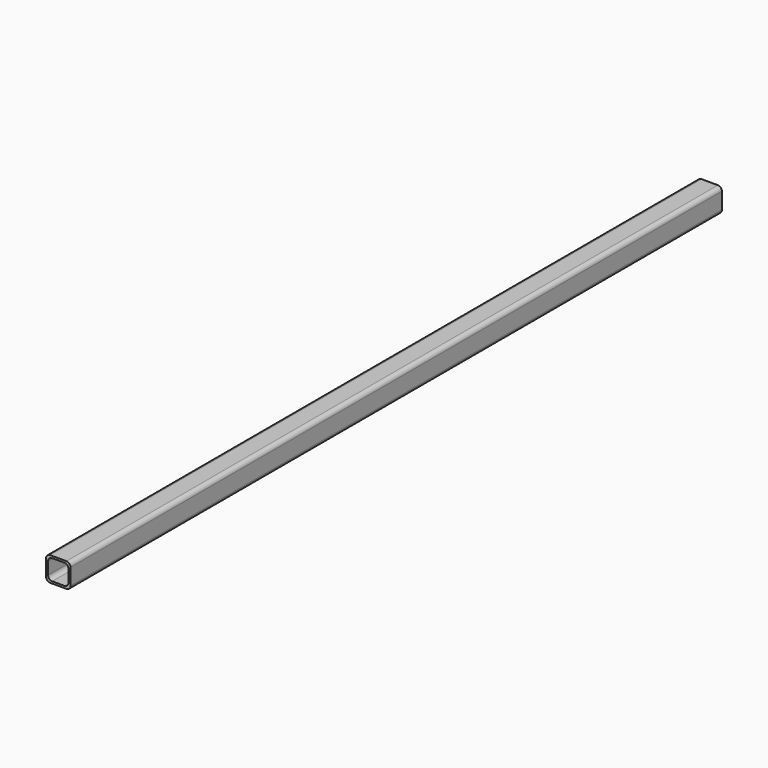
from build123d import *

# Parameters (mm, degrees)
F1_DEPTH = 1270


with BuildPart() as f1:
    # F0 (on Front) → F1 (new body)
    with BuildSketch(Plane.XZ):
        with BuildLine():
            ThreePointArc((0, 6.35), (1.859872, 1.859872), (6.35, 0))
            Line((6.35, 0), (31.75, 0))
            ThreePointArc((31.75, 0), (36.240128, 1.859872), (38.1, 6.35))
            Line((38.1, 6.35), (38.1, 31.75))
            ThreePointArc((38.1, 31.75), (36.240128, 36.240128), (31.75, 38.1))
            Line((31.75, 38.1), (6.35, 38.1))
            ThreePointArc((6.35, 38.1), (1.859872, 36.240128), (0, 31.75))
            Line((0, 31.75), (0, 6.35))
        make_face()
        with BuildLine():
            Line((28.575, 3.175), (9.525, 3.175))
            ThreePointArc((9.525, 3.175), (5.034872, 5.034872), (3.175, 9.525))
            Line((3.175, 9.525), (3.175, 28.575))
            ThreePointArc((3.175, 28.575), (5.034872, 33.065128), (9.525, 34.925))
            Line((9.525, 34.925), (28.575, 34.925))
            ThreePointArc((28.575, 34.925), (33.065128, 33.065128), (34.925, 28.575))
            Line((34.925, 28.575), (34.925, 9.525))
            ThreePointArc((34.925, 9.525), (33.065128, 5.034872), (28.575, 3.175))
        make_face(mode=Mode.SUBTRACT)
    extrude(amount=F1_DEPTH)


solid = f1.part
